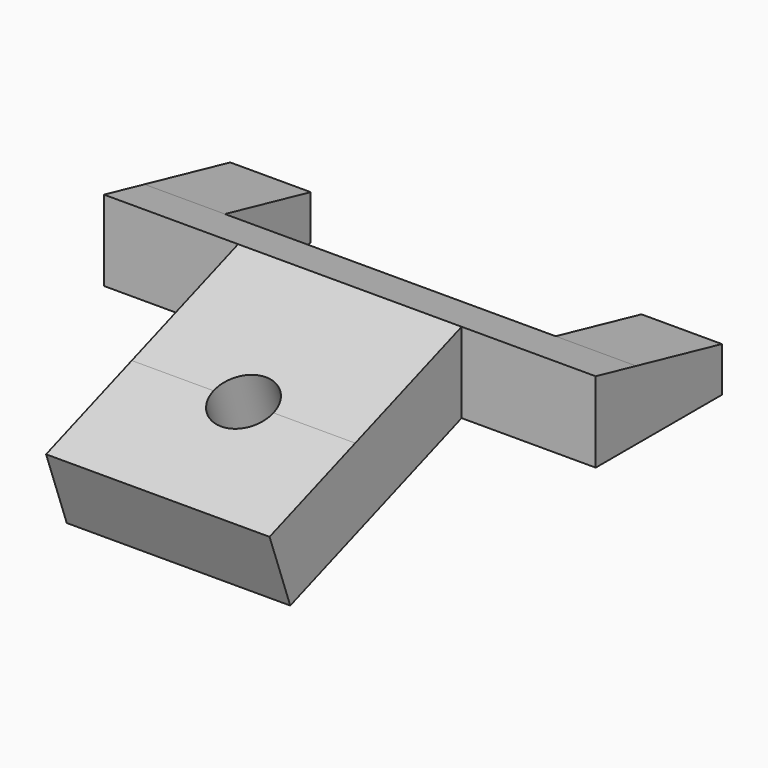
from build123d import *

# Parameters (mm, degrees)
F1_DEPTH = 27.5
F2_DEPTH = 12.5
F3_DEPTH = 18.5
F4_R     = 3.35
F5_DEPTH = 8.4572335871


with BuildPart() as f1:
    # F0 (on Right) → F1 (new body, symmetric)
    with BuildSketch(Plane.YZ):
        Polygon((2.0231563184, 7.7193960785), (2.0231563184, 0), (14.0231563184, 0), (14.0231563184, 4.9995293425), align=None)
        Polygon((-3.6268436816, 9), (-3.6268436816, 0), (2.0231563184, 0), (2.0231563184, 7.7193960785), align=None)
    extrude(amount=F1_DEPTH, both=True)

    # F0 (on Right) → F2 (join, symmetric)
    with BuildSketch(Plane.YZ):
        Polygon((-15.6079412508, -4.360762889), (-3.6268436816, 0), (-3.6268436816, 9), (-18.5004854943, 3.586437105), align=None)
        Polygon((-27.5890355811, -8.7215245992), (-15.6079412508, -4.360762889), (-18.5004854943, 3.586437105), (-30.4815798247, -0.7743246052), align=None)
    extrude(amount=F2_DEPTH, both=True)

    # F0 (on Right) → F3 (cut, symmetric)
    with BuildSketch(Plane.YZ):
        Polygon((2.0231563184, 7.7193960785), (2.0231563184, 0), (14.0231563184, 0), (14.0231563184, 4.9995293425), align=None)
    extrude(amount=F3_DEPTH, both=True, mode=Mode.SUBTRACT)

    # F4 (on face) → F5 (cut, through all)
    with BuildSketch(Plane(origin=(0, -3.3168043602, 9.1128450844), x_dir=(1, 0, 0), z_dir=(0, -0.3420201433, 0.9396926208))):
        with Locations((0, -16.1581359673)):
            Circle(F4_R)
    extrude(amount=-F5_DEPTH, mode=Mode.SUBTRACT)


solid = f1.part
